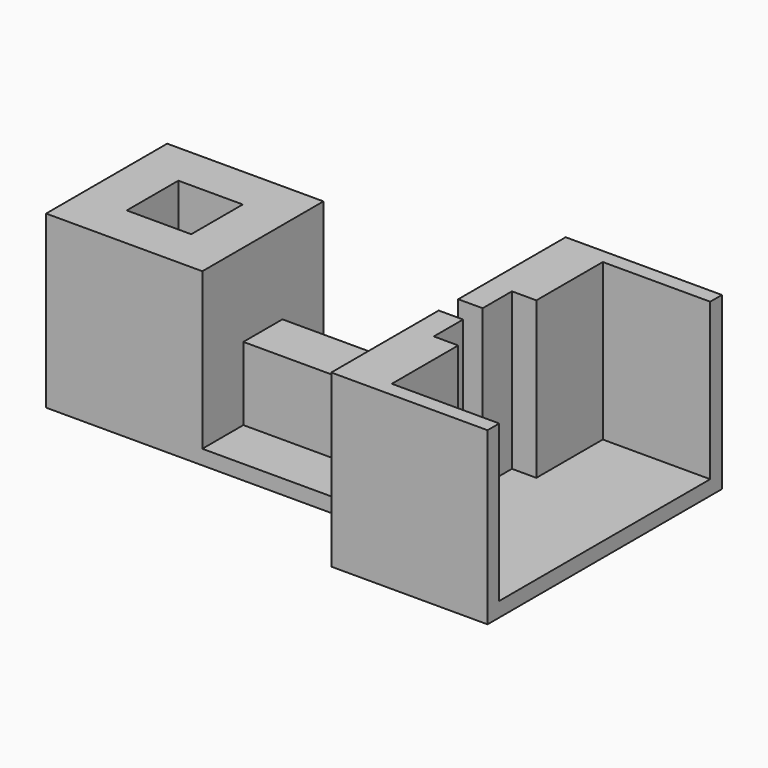
from build123d import *

# Parameters (mm, degrees)
PAD_DEPTH       = 3
SKETCH001_W     = 32
SKETCH001_H     = 60
PAD001_DEPTH    = 32
SKETCH002_W     = 22
SKETCH002_H     = 54
POCKET_DEPTH    = 32
SKETCH003_W     = 38
SKETCH003_H     = 10
PAD002_DEPTH    = 15
POCKET001_DEPTH = 32
SKETCH005_W     = 32
SKETCH005_H     = 31
PAD003_DEPTH    = 32
SKETCH006_W     = 13.2
SKETCH006_H     = 13.2
POCKET002_DEPTH = 32
SKETCH007_W     = 1.848
SKETCH007_H     = 4.499
POCKET003_DEPTH = 10.55


with BuildPart() as part:
    # Sketch → Pad (new body)
    with BuildSketch(Plane.XY):
        Polygon((-48.115829, 15.5), (21.884171, 15.5), (21.884171, 30), (53.884171, 30), (53.884171, -30), (21.884171, -30), (21.884171, -15.5), (-48.115829, -15.5), align=None)
    extrude(amount=PAD_DEPTH)

    # Sketch001 (on Face10 of Pad) → Pad001 (join)
    with BuildSketch(Plane.XY.offset(3)):
        with Locations((37.884171, 0)):
            Rectangle(SKETCH001_W, SKETCH001_H)
    extrude(amount=PAD001_DEPTH)

    # Sketch002 (on Face14 of Pad001) → Pocket (cut)
    with BuildSketch(Plane.XY.offset(35)):
        with Locations((42.884171, 0)):
            Rectangle(SKETCH002_W, SKETCH002_H)
    extrude(amount=-POCKET_DEPTH, mode=Mode.SUBTRACT)

    # Sketch003 (on Face5 of Pocket) → Pad002 (join)
    with BuildSketch(Plane.XY.offset(3)):
        with Locations((2.884171, 0)):
            Rectangle(SKETCH003_W, SKETCH003_H)
    extrude(amount=PAD002_DEPTH)

    # Sketch004 (on Face17 of Pad002) → Pocket001 (cut)
    with BuildSketch(Plane.XY.offset(35)):
        Polygon((31.884171, 10), (31.884171, -10), (26.884171, -10), (26.884171, -2.5), (11.884171, -2.5), (11.884171, 2.5), (26.884171, 2.5), (26.884171, 10), align=None)
    extrude(amount=-POCKET001_DEPTH, mode=Mode.SUBTRACT)

    # Sketch005 (on Face5 of Pocket001) → Pad003 (join)
    with BuildSketch(Plane.XY.offset(3)):
        with Locations((-32.115829, 0)):
            Rectangle(SKETCH005_W, SKETCH005_H)
    extrude(amount=PAD003_DEPTH)

    # Sketch006 (on Face15 of Pad003) → Pocket002 (cut)
    with BuildSketch(Plane.XY.offset(35)):
        with Locations((-32.115829, 0)):
            Rectangle(SKETCH006_W, SKETCH006_H)
    extrude(amount=-POCKET002_DEPTH, mode=Mode.SUBTRACT)

    # Sketch007 (on Face21 of Pocket002) → Pocket003 (cut)
    with BuildSketch(Plane.XY.offset(18)):
        with Locations((3.484171, 0)):
            Rectangle(SKETCH007_W, SKETCH007_H)
    extrude(amount=-POCKET003_DEPTH, mode=Mode.SUBTRACT)


solid = part.part
